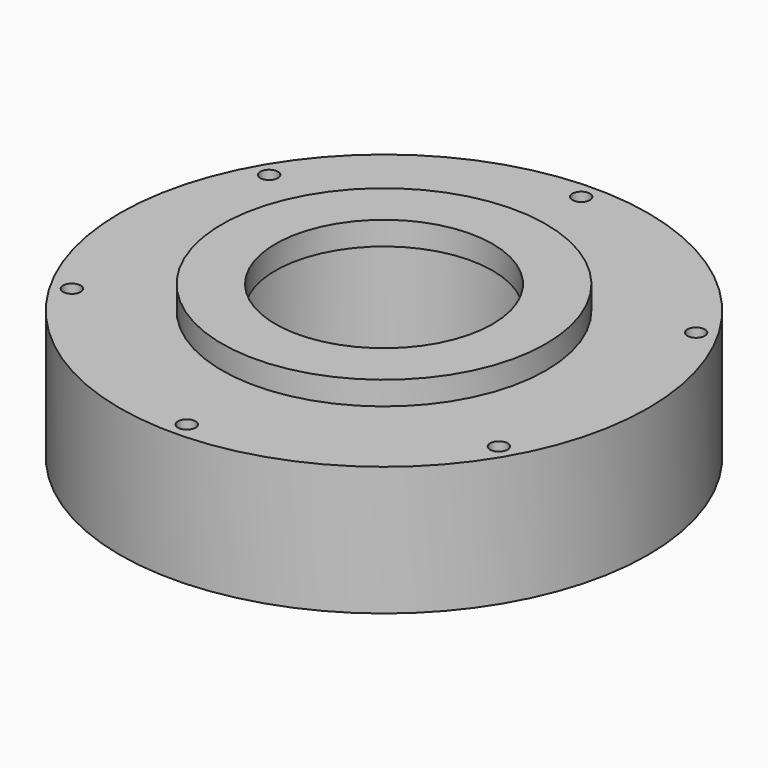
from build123d import *

# Parameters (mm, degrees)
F0_R     = 57.15
F0_R_2   = 27.432
F1_DEPTH = 27.94
F2_R     = 35.052
F2_R_2   = 23.495
F3_DEPTH = 5.08
F5_D     = 3.7973


with BuildPart() as f1:
    # F0 (on Top) → F1 (new body)
    with BuildSketch(Plane.XY):
        Circle(F0_R)
        Circle(F0_R_2, mode=Mode.SUBTRACT)
    extrude(amount=F1_DEPTH)

    # F2 (on face) → F3 (join)
    with BuildSketch(Plane.XY.offset(27.94)):
        Circle(F2_R)
        Circle(F2_R_2, mode=Mode.SUBTRACT)
    extrude(amount=F3_DEPTH)

    # F5 (through all)
    with Locations(Plane.XY.offset(27.94)):
        with Locations((0, -53.34), (46.1937950379, -26.67), (46.1937950379, 26.67), (0, 53.34), (-46.1937950379, 26.67), (-46.1937950379, -26.67)):
            Hole(F5_D / 2)


solid = f1.part
